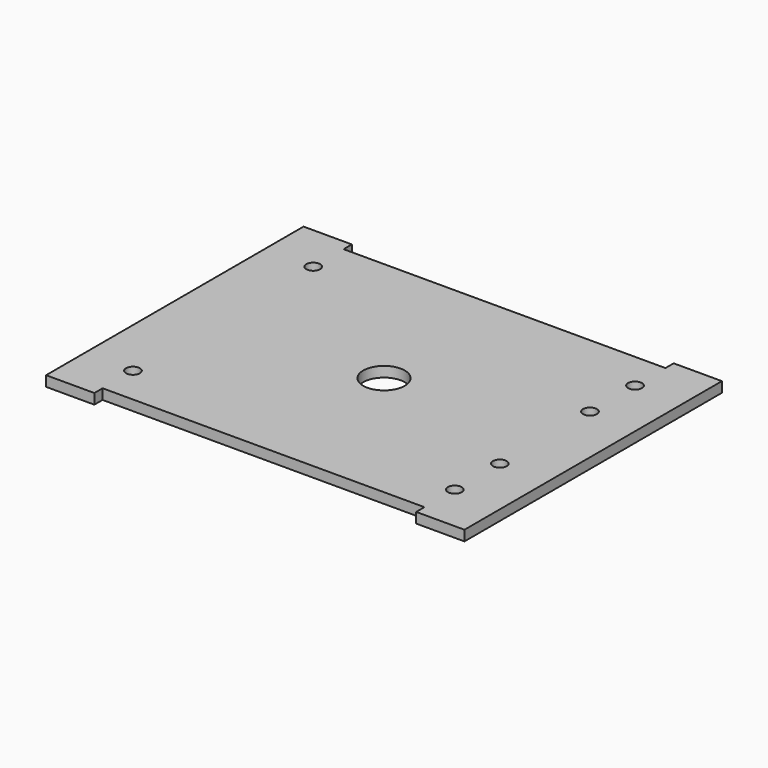
from build123d import *

# Parameters (mm, degrees)
F0_W     = 130
F0_H     = 100
F1_DEPTH = 3.2
F2_R     = 2.15
F2_W     = 100
F2_H     = 3.2
F2_R_2   = 6.45
F3_DEPTH = 40


with BuildPart() as f1:
    # F0 (on Top) → F1 (new body)
    with BuildSketch(Plane.XY):
        Rectangle(F0_W, F0_H)
    extrude(amount=F1_DEPTH)

    # F2 (on Top) → F3 (cut)
    with BuildSketch(Plane.XY):
        with Locations((-50, 35)):
            Circle(F2_R)
        with Locations((50, 35)):
            Circle(F2_R)
        with Locations((50, -35)):
            Circle(F2_R)
        with Locations((-50, -35)):
            Circle(F2_R)
        with Locations((50, 17.5)):
            Circle(F2_R)
        with Locations((50, -17.5)):
            Circle(F2_R)
        with Locations((0, 48.4)):
            Rectangle(F2_W, F2_H)
        with Locations((0, -48.4)):
            Rectangle(F2_W, F2_H)
        Circle(F2_R_2)
    extrude(amount=F3_DEPTH, mode=Mode.SUBTRACT)


solid = f1.part
